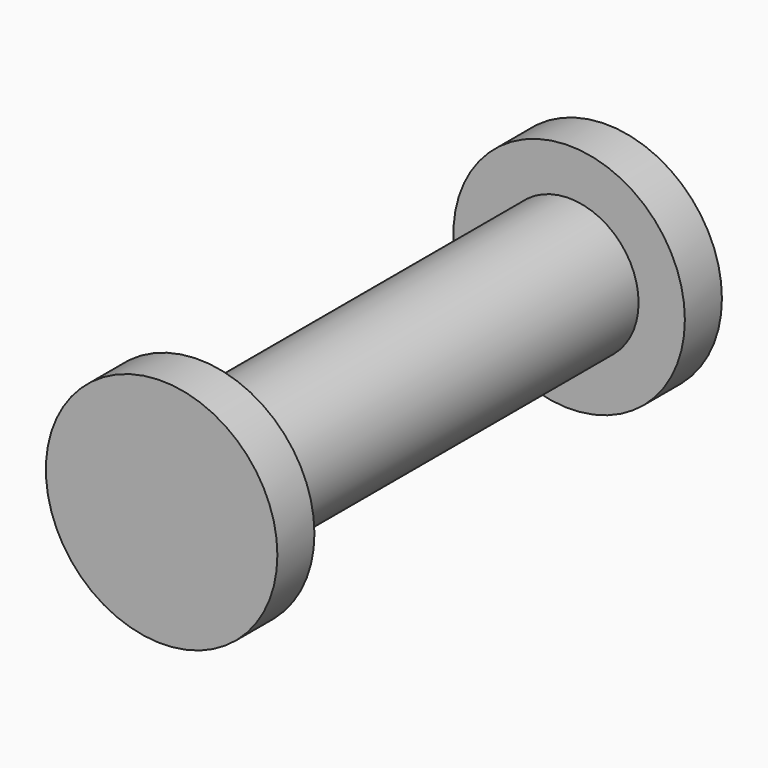
from build123d import *

# Parameters (mm, degrees)
F0_R     = 7.5
F1_DEPTH = 60
F0_R_2   = 12.5
F2_DEPTH = 5
F3_START = 55
F3_DEPTH = 5


with BuildPart() as f1:
    # F0 (on Front) → F1 (new body)
    with BuildSketch(Plane.XZ):
        Circle(F0_R)
    extrude(amount=F1_DEPTH)

    # F0 (on Front) → F2 (join)
    with BuildSketch(Plane.XZ):
        Circle(F0_R_2)
        Circle(F0_R, mode=Mode.SUBTRACT)
    extrude(amount=F2_DEPTH)

    # F0 (on Front) → F3 (join)
    with BuildSketch(Plane.XZ.offset(F3_START)):
        Circle(F0_R_2)
        Circle(F0_R, mode=Mode.SUBTRACT)
    extrude(amount=F3_DEPTH)


solid = f1.part
